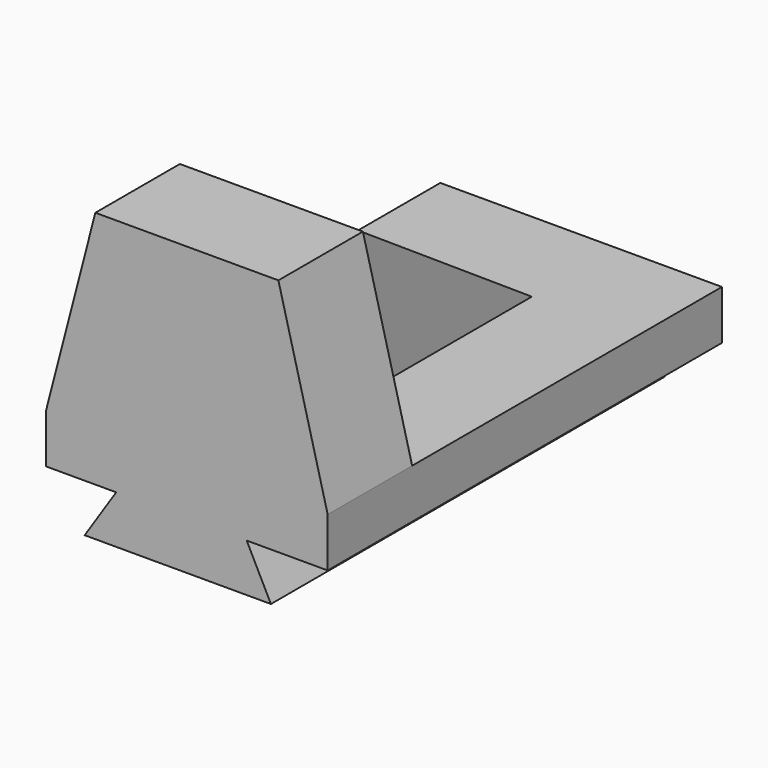
from build123d import *

# Parameters (mm, degrees)
F0_W     = 2032
F0_H     = 3556
F1_DEPTH = 355.6
F3_DEPTH = 3556
F5_DEPTH = 762
F6_W     = 508
F6_H     = 2032
F7_DEPTH = 1371.6
F9_DEPTH = 1270.001


with BuildPart() as f1:
    # F0 (on Top) → F1 (new body)
    with BuildSketch(Plane.XY):
        with Locations((1016, 1778)):
            Rectangle(F0_W, F0_H)
    extrude(amount=-F1_DEPTH)

    # F2 (on face) → F3 (join)
    with BuildSketch(Plane.XZ):
        Polygon((505.785346, -355.6), (278.495428, -702.167366), (1622.342771, -702.167366), (1447.72017, -355.6), align=None)
    extrude(amount=-F3_DEPTH)

    # F4 (on face) → F5 (join)
    with BuildSketch(Plane.XZ):
        Polygon((355.6, 1371.6), (0, 0), (2032, 0), (1676.4, 1371.6), align=None)
    extrude(amount=-F5_DEPTH)

    # F6 (on face) → F7 (join)
    with BuildSketch(Plane.XY):
        with Locations((1016, 1778)):
            Rectangle(F6_W, F6_H)
    extrude(amount=F7_DEPTH)

    # F8 (on face) → F9 (cut, through all)
    with BuildSketch(Plane(origin=(762, 0, 0), x_dir=(0, -1, 0), z_dir=(-1, 0, 0))):
        Polygon((-2794, 0), (-762, 1371.6), (-2794, 1371.6), align=None)
    extrude(amount=-F9_DEPTH, mode=Mode.SUBTRACT)


solid = f1.part
